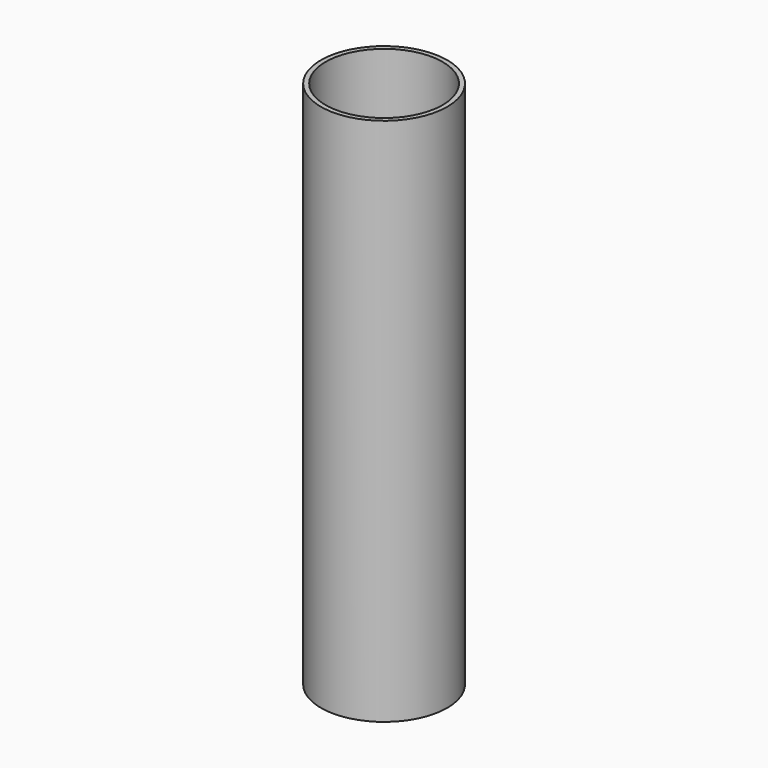
from build123d import *

# Parameters (mm, degrees)
F0_R     = 10.75
F1_DEPTH = 90


with BuildPart() as f1:
    # F0 (on Top) → F1 (new body)
    with BuildSketch(Plane.XY):
        Circle(F0_R)
        with BuildLine():
            ThreePointArc((9.859032, -1.34238), (-9.95, 0), (9.859032, 1.34238))
            ThreePointArc((9.859032, 1.34238), (10.150269, 0.699078), (10.25, 0))
            ThreePointArc((10.25, 0), (10.150269, -0.699078), (9.859032, -1.34238))
        make_face(mode=Mode.SUBTRACT)
        with BuildLine():
            ThreePointArc((9.859032, 1.34238), (9.927232, 0.672729), (9.95, 0))
            ThreePointArc((9.95, 0), (9.927232, -0.672729), (9.859032, -1.34238))
            ThreePointArc((9.859032, -1.34238), (10.150269, -0.699078), (10.25, 0))
            ThreePointArc((10.25, 0), (10.150269, 0.699078), (9.859032, 1.34238))
        make_face()
    extrude(amount=F1_DEPTH)


solid = f1.part
